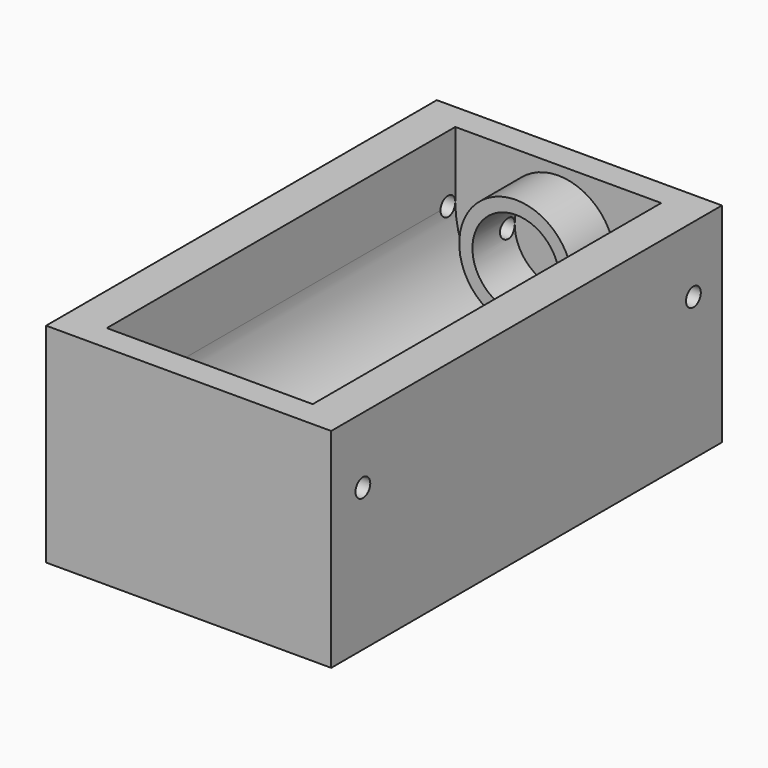
from build123d import *

# Parameters (mm, degrees)
PAD_DEPTH         = 35
SKETCH001_W       = 21.6
SKETCH001_H       = 15.8
PAD001_DEPTH      = 2
SKETCH002_R       = 4.3
SKETCH002_R_2     = 3.3
PAD002_DEPTH      = 6
SKETCH003_R       = 0.7
POCKET_DEPTH      = 10.801
POCKET_DEPTH_BACK = 10.801
SKETCH004_W       = 21.6
SKETCH004_H       = 15.8
PAD003_DEPTH      = 2


with BuildPart() as part:
    # Sketch → Pad (new body)
    with BuildSketch(Plane.XZ):
        with BuildLine():
            Line((-10.8, 0), (10.8, 0))
            Line((10.8, 0), (10.8, 15.8))
            Line((10.8, 15.8), (7.8, 15.8))
            Line((7.8, 15.8), (7.8, 10.8))
            ThreePointArc((-7.8, 10.8), (0, 3), (7.8, 10.8))
            Line((-7.8, 10.8), (-7.8, 15.8))
            Line((-7.8, 15.8), (-10.8, 15.8))
            Line((-10.8, 15.8), (-10.8, 0))
        make_face()
    extrude(amount=PAD_DEPTH)

    # Sketch001 → Pad001 (join)
    with BuildSketch(Plane.XZ):
        with Locations((0, 7.9)):
            Rectangle(SKETCH001_W, SKETCH001_H)
    extrude(amount=PAD001_DEPTH)

    # Sketch002 → Pad002 (join)
    with BuildSketch(Plane.XZ):
        with Locations((0, 10.8)):
            Circle(SKETCH002_R)
        with Locations((0, 10.8)):
            Circle(SKETCH002_R_2, mode=Mode.SUBTRACT)
    extrude(amount=PAD002_DEPTH)

    # Sketch003 → Pocket (cut, two sides)
    with BuildSketch(Plane.YZ) as pocket_sk:
        with Locations((-2.7, 10.8)):
            Circle(SKETCH003_R)
        with Locations((-34, 10.8)):
            Circle(SKETCH003_R)
    extrude(amount=-POCKET_DEPTH, mode=Mode.SUBTRACT)
    extrude(pocket_sk.sketch, amount=POCKET_DEPTH_BACK, mode=Mode.SUBTRACT)

    # Sketch004 (on DatumPlane) → Pad003 (join)
    with BuildSketch(Plane.XZ.offset(35)):
        with Locations((0, 7.9)):
            Rectangle(SKETCH004_W, SKETCH004_H)
    extrude(amount=PAD003_DEPTH)


solid = part.part
